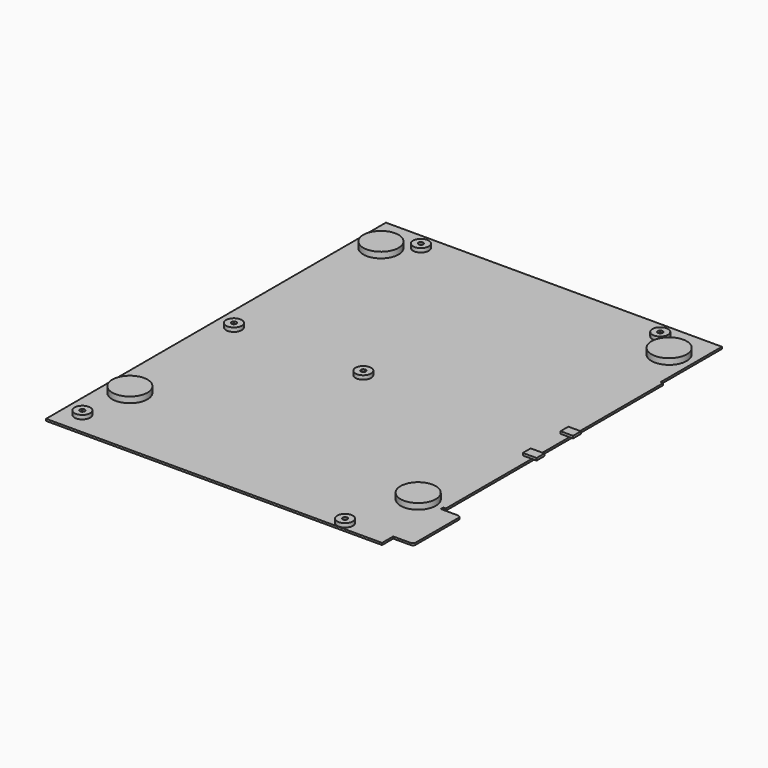
from build123d import *

# Parameters (mm, degrees)
PAD010_DEPTH    = 1
SKETCH046_R     = 9
PAD011_DEPTH    = 4
SKETCH047_R     = 6.5
POCKET029_DEPTH = 2.6
SKETCH050_R     = 4
PAD012_DEPTH    = 3
SKETCH051_R     = 2.4
POCKET031_DEPTH = 2
SKETCH052_R     = 1.25
POCKET032_DEPTH = 5
SKETCH059_W     = 7
SKETCH059_H     = 5
SKETCH059_W_2   = 6.41159
PAD013_DEPTH    = 1.2


with BuildPart() as part:
    # Sketch044 (on DatumPlane) → Pad010 (new body)
    with BuildSketch(Plane(origin=(0, 0, -9), x_dir=(1, 0, 0), z_dir=(0, 0, -1))):
        with BuildLine():
            Line((-79.145, 108.35), (-79.145, -108.35))
            Line((-79.145, -108.35), (92.255, -108.35))
            Line((92.255, -108.35), (92.255, -69.206169))
            Line((93.544304, -69.206169), (92.255, -69.206169))
            Line((93.544304, 69.259346), (93.544304, -69.206169))
            Line((92.24646, 69.259346), (93.544304, 69.259346))
            Line((92.24646, 69.259346), (92.24646, 70.93325))
            Line((92.24646, 70.93325), (101.038879, 70.93325))
            ThreePointArc((101.038879, 70.93325), (102.099539, 71.37259), (102.538879, 72.43325))
            Line((102.538879, 72.43325), (102.538879, 99.723724))
            ThreePointArc((102.538879, 99.723724), (102.099539, 100.784384), (101.038879, 101.223724))
            Line((101.038879, 101.223724), (92.24646, 101.223724))
            Line((92.24646, 101.223724), (92.24646, 108.35))
            Line((92.24646, 108.35), (-79.145, 108.35))
        make_face()
    extrude(amount=-PAD010_DEPTH)

    # Sketch046 (on DatumPlane) → Pad011 (join)
    with BuildSketch(Plane(origin=(0, 0, -9), x_dir=(1, 0, 0), z_dir=(0, 0, -1))):
        with Locations((-67.0755, 70)):
            Circle(SKETCH046_R)
        with Locations((80, 70)):
            Circle(SKETCH046_R)
        with Locations((80, -90)):
            Circle(SKETCH046_R)
        with Locations((-67, -90)):
            Circle(SKETCH046_R)
    extrude(amount=-PAD011_DEPTH)

    # Sketch047 (on DatumPlane) → Pocket029 (cut)
    with BuildSketch(Plane(origin=(0, 0, -9), x_dir=(1, 0, 0), z_dir=(0, 0, -1))):
        with Locations((-67, 70)):
            Circle(SKETCH047_R)
        with Locations((80, 70)):
            Circle(SKETCH047_R)
        with Locations((80, -90)):
            Circle(SKETCH047_R)
        with Locations((-67, -90)):
            Circle(SKETCH047_R)
    extrude(amount=-POCKET029_DEPTH, mode=Mode.SUBTRACT)

    # Sketch050 (on DatumPlane) → Pad012 (join)
    with BuildSketch(Plane(origin=(0, 0, -9), x_dir=(1, 0, 0), z_dir=(0, 0, -1))):
        with Locations((-70, 0)):
            Circle(SKETCH050_R)
        with Locations((-70, 96.649681)):
            Circle(SKETCH050_R)
        with Locations((-4, 0)):
            Circle(SKETCH050_R)
        with Locations((67.474617, -100)):
            Circle(SKETCH050_R)
        with Locations((-54.612518, -100)):
            Circle(SKETCH050_R)
        with Locations((70, 104.126282)):
            Circle(SKETCH050_R)
    extrude(amount=-PAD012_DEPTH)

    # Sketch051 (on DatumPlane) → Pocket031 (cut)
    with BuildSketch(Plane(origin=(0, 0, -9), x_dir=(1, 0, 0), z_dir=(0, 0, -1))):
        with Locations((-70, 0)):
            Circle(SKETCH051_R)
        with Locations((-4, 0)):
            Circle(SKETCH051_R)
        with Locations((67.474617, -100)):
            Circle(SKETCH051_R)
        with Locations((-54.612518, -100)):
            Circle(SKETCH051_R)
        with Locations((-70, 96.649681)):
            Circle(SKETCH051_R)
        with Locations((70, 104.185745)):
            Circle(SKETCH051_R)
    extrude(amount=-POCKET031_DEPTH, mode=Mode.SUBTRACT)

    # Sketch052 (on DatumPlane) → Pocket032 (cut)
    with BuildSketch(Plane(origin=(0, 0, -9), x_dir=(1, 0, 0), z_dir=(0, 0, -1))):
        with Locations((-54.612518, -100)):
            Circle(SKETCH052_R)
        with Locations((67.474617, -100)):
            Circle(SKETCH052_R)
        with Locations((-4, 0)):
            Circle(SKETCH052_R)
        with Locations((-70, 0)):
            Circle(SKETCH052_R)
        with Locations((70.000001, 104.129997)):
            Circle(SKETCH052_R)
        with Locations((-70, 96.649681)):
            Circle(SKETCH052_R)
    extrude(amount=-POCKET032_DEPTH, mode=Mode.SUBTRACT)

    # Sketch059 (on DatumPlane) → Pad013 (join)
    with BuildSketch(Plane(origin=(0, 0, -8), x_dir=(1, 0, 0), z_dir=(0, 0, -1))):
        with Locations((92.5, 12)):
            Rectangle(SKETCH059_W, SKETCH059_H)
        with Locations((92.205795, -12)):
            Rectangle(SKETCH059_W_2, SKETCH059_H)
    extrude(amount=-PAD013_DEPTH)


solid = part.part
